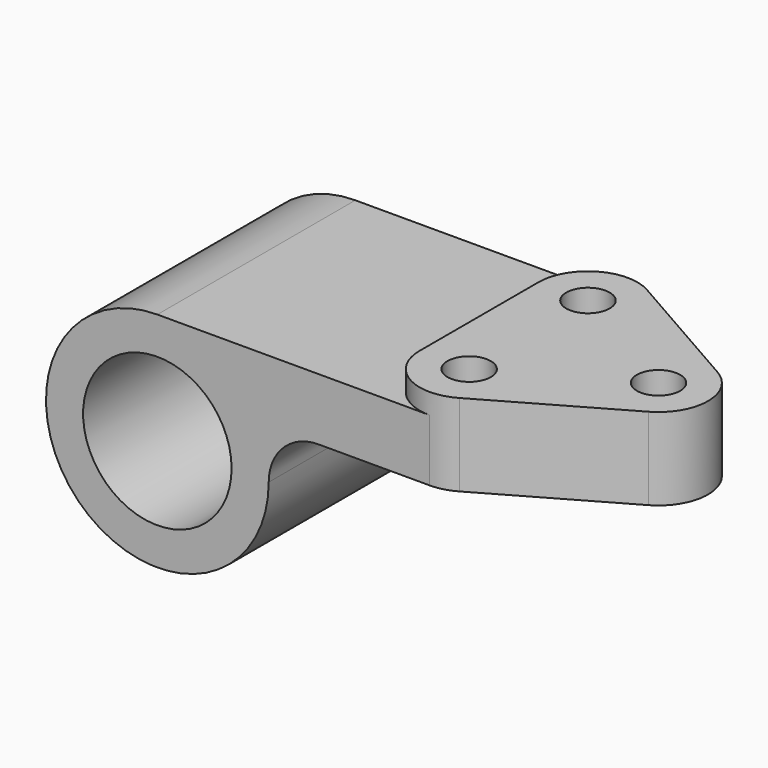
from build123d import *

# Parameters (mm, degrees)
F0_R     = 19.05
F1_DEPTH = 31.75
F3_DEPTH = 21.1074
F4_R     = 5.5626
F5_DEPTH = 62.3834


with BuildPart() as f1:
    # F0 (on Front) → F1 (new body, symmetric)
    with BuildSketch(Plane.XZ):
        with BuildLine():
            Line((69.85, 28.575), (0, 28.575))
            ThreePointArc((0, 28.575), (-20.205576, -20.205576), (28.575, 0))
            ThreePointArc((28.575, 0), (32.294744, 8.980256), (41.275, 12.7))
            Line((41.275, 12.7), (69.85, 12.7))
            Line((69.85, 12.7), (69.85, 28.575))
        make_face()
        Circle(F0_R, mode=Mode.SUBTRACT)
    extrude(amount=F1_DEPTH, both=True)

    # F2 (on face) → F3 (join)
    with BuildSketch(Plane(origin=(0, 0, 12.7), x_dir=(1, 0, 0), z_dir=(0, 0, -1))):
        with BuildLine():
            ThreePointArc((76.149155, 30.077721), (63.474628, 30.033835), (57.15, 19.05))
            Line((57.15, 19.05), (57.15, -19.05))
            ThreePointArc((57.15, -19.05), (63.474628, -30.033835), (76.149155, -30.077721))
            Line((76.149155, -30.077721), (109.499355, -11.027721))
            ThreePointArc((109.499355, -11.027721), (115.9002, 0), (109.499355, 11.027721))
            Line((109.499355, 11.027721), (76.149155, 30.077721))
        make_face()
    extrude(amount=-F3_DEPTH)

    # F4 (on face) → F5 (cut, through all)
    with BuildSketch(Plane.XY.offset(33.8074)):
        with Locations((103.2002, 0)):
            Circle(F4_R)
        with Locations((69.85, -19.05)):
            Circle(F4_R)
        with Locations((69.85, 19.05)):
            Circle(F4_R)
    extrude(amount=-F5_DEPTH, mode=Mode.SUBTRACT)


solid = f1.part
